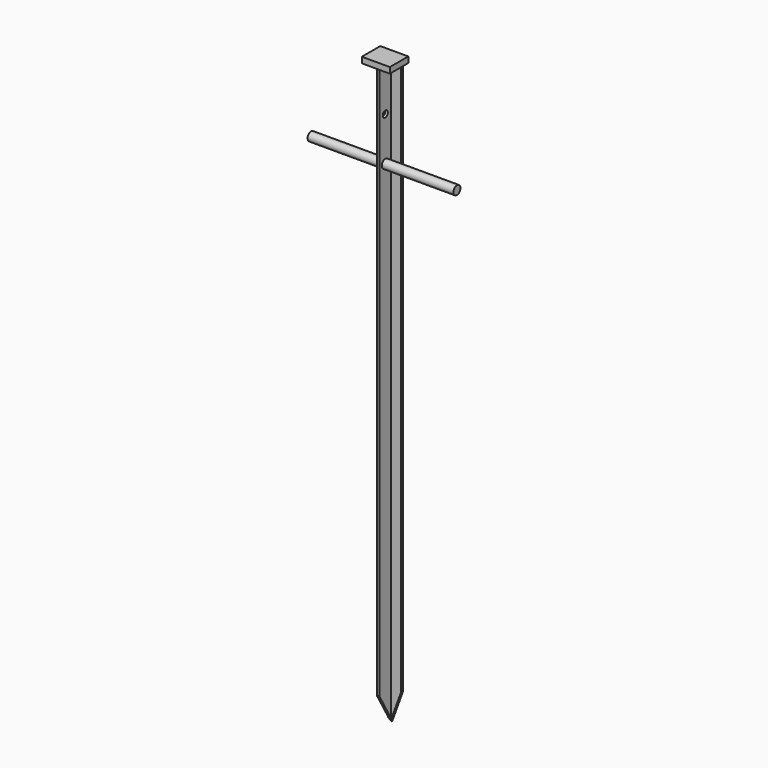
from build123d import *

# Parameters (mm, degrees)
F0_W     = 4.5
F0_H     = 25
F1_DEPTH = 1000
F2_R     = 7.5
F3_DEPTH = 125
F4_W     = 48
F4_H     = 39.5
F5_DEPTH = 10
F7_DEPTH = 50
F9_DEPTH = 34.501
F11_D    = 11


with BuildPart() as f1:
    # F0 (on Top) → F1 (new body)
    with BuildSketch(Plane.XY):
        Polygon((2.25, -2.25), (19, -2.25), (19, 2.25), (-19, 2.25), (-19, -2.25), (-2.25, -2.25), align=None)
        with Locations((0, -14.75)):
            Rectangle(F0_W, F0_H)
    extrude(amount=F1_DEPTH)

    # F2 (on Right) → F3 (join, symmetric)
    with BuildSketch(Plane.YZ):
        with Locations((-14.75, 850)):
            Circle(F2_R)
    extrude(amount=F3_DEPTH, both=True)

    # F4 (on face) → F5 (join)
    with BuildSketch(Plane.XY.offset(1000)):
        with Locations((0, -12.5)):
            Rectangle(F4_W, F4_H)
    extrude(amount=F5_DEPTH)

    # F6 (on Right) → F7 (cut, symmetric)
    with BuildSketch(Plane.YZ):
        Polygon((-27.25, 0), (2.25, 0), (-27.25, 51.0954988233), align=None)
    extrude(amount=F7_DEPTH, both=True, mode=Mode.SUBTRACT)

    # F8 (on face) → F9 (cut, through all)
    with BuildSketch(Plane(origin=(0, 2.25, 0), x_dir=(-1, 0, 0), z_dir=(0, 1, 0))):
        Polygon((-19, 0), (0, 0), (-19, 52.2020709696), align=None)
        Polygon((19, 52.2020709696), (0, 0), (19, 0), align=None)
    extrude(amount=-F9_DEPTH, mode=Mode.SUBTRACT)

    # F11 (through all)
    with Locations(Plane.YZ.offset(2.25)):
        with Locations((-14.75, 925)):
            Hole(F11_D / 2)


solid = f1.part
